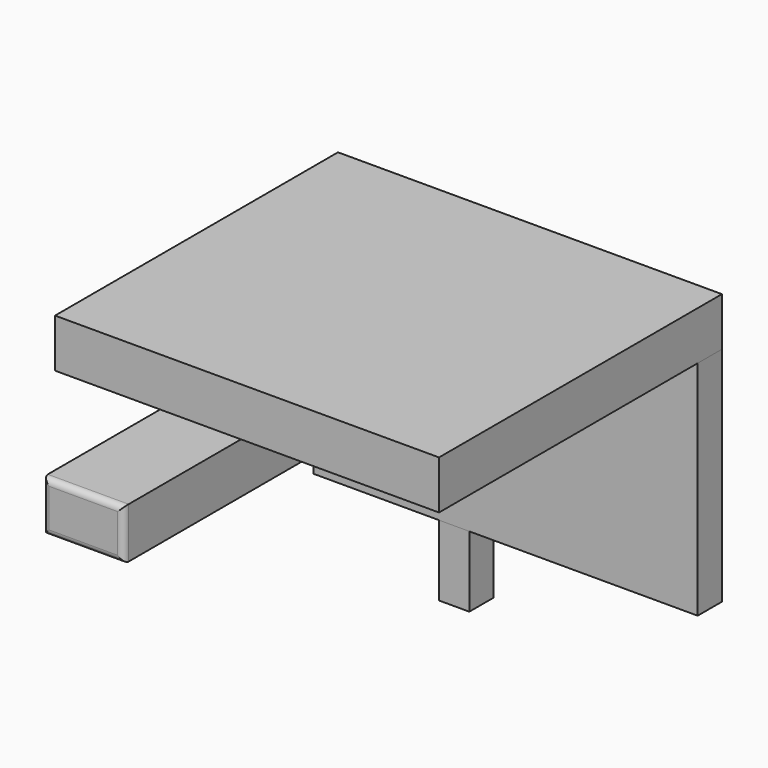
from build123d import *

# Parameters (mm, degrees)
EXTRUDE001_DEPTH = 2.4
EXTRUDE002_DEPTH = 4
FILLET_R         = 0.3
SKETCH003_W      = 1.5
SKETCH003_H      = 1.5
EXTRUDE003_DEPTH = 3.5
EXTRUDE004_DEPTH = 1.5
SKETCH_W         = 19
SKETCH_H         = 1.5
EXTRUDE_DEPTH    = 11


with BuildPart() as extrude001:
    # Sketch001 (on Face6 of Extrude) → Extrude001 (new body)
    with BuildSketch(Plane.XY.offset(11)):
        Polygon((19, 0), (19, -16), (0, -16), (0, 0), (0, 1.5), (19, 1.5), align=None)
    extrude(amount=EXTRUDE001_DEPTH)


with BuildPart() as fillet_body:
    # Sketch002 (on Face4 of Extrude) → Extrude002 (new body)
    with BuildSketch(Plane(origin=(0, 0, 0), x_dir=(0, -1, 0), z_dir=(-1, 0, 0))):
        with BuildLine():
            Line((2.5, 7.5), (18, 7.5))
            Line((18, 7.5), (18, 5))
            Line((18, 5), (0, 5))
            Line((0, 5), (0, 9.5))
            add(Edge.make_bspline(
                [(0, 9.5), (0, 7.5), (2.5, 7.5)],
                knots=[5.987452, 5.987452, 5.987452, 7.325142, 7.325142, 7.325142], degree=2, weights=[1, 0.784538, 1]))
        make_face()
    extrude(amount=-EXTRUDE002_DEPTH)


with BuildPart() as fillet_body_1:
    # Extrude002 placement: moved
    add(fillet_body.part.moved(Location((1, 0, 0))))

    # Fillet
    fillet_edges = [fillet_body_1.edges().sort_by_distance(p)[0] for p in [
        (3, -18, 7.5),
        (3, -18, 5),
        (5, -18, 6.25),
        (1, -18, 6.25),
    ]]
    fillet(fillet_edges, radius=FILLET_R)


with BuildPart() as extrude003:
    # Sketch003 (on Face5 of Extrude) → Extrude003 (new body)
    with BuildSketch(Plane(origin=(0, 0, 0), x_dir=(1, 0, 0), z_dir=(0, 0, -1))):
        with Locations((6.95, -0.75)):
            Rectangle(SKETCH003_W, SKETCH003_H)
    extrude(amount=EXTRUDE003_DEPTH)


with BuildPart() as extrude004:
    # Sketch004 (on Face1 of Extrude) → Extrude004 (new body)
    with BuildSketch(Plane.XZ):
        Polygon((5, 11), (7, 11), (7, 3), (0, 3), (0, 5), (5, 5), align=None)
    extrude(amount=-EXTRUDE004_DEPTH)


with BuildPart() as cut:
    # Sketch → Extrude (new body)
    with BuildSketch(Plane.XY):
        with Locations((9.5, 0.75)):
            Rectangle(SKETCH_W, SKETCH_H)
    extrude(amount=EXTRUDE_DEPTH)

    # Cut: cut Extrude004
    add(extrude004.part, mode=Mode.SUBTRACT)


solid = Compound([extrude001.part, fillet_body_1.part, extrude003.part, cut.part])
